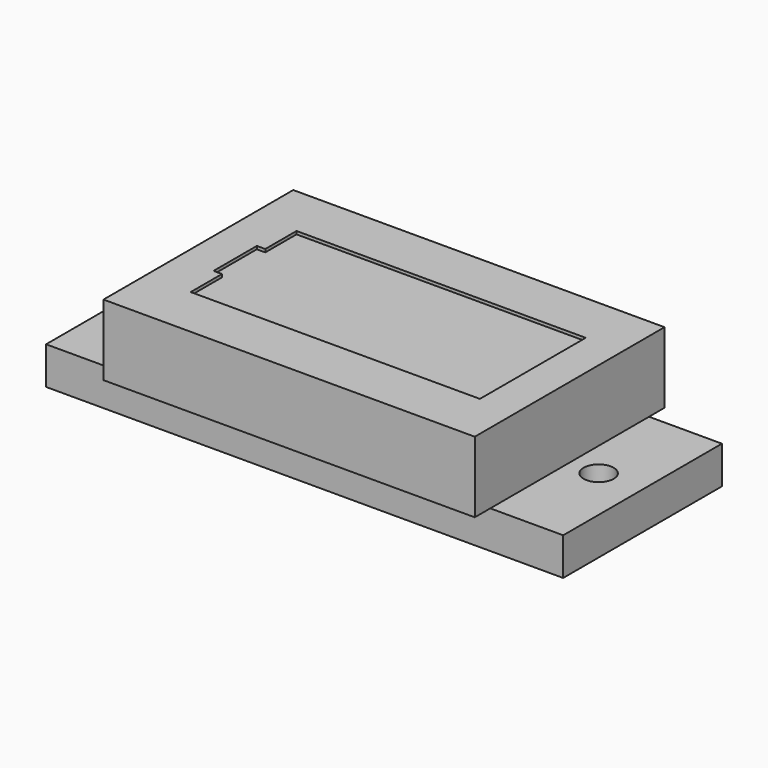
from build123d import *

# Parameters (mm, degrees)
F0_W     = 43.688
F0_H     = 16.764
F0_R     = 1.27
F1_DEPTH = 3.175
F2_W     = 31.369
F2_H     = 20.0406
F3_DEPTH = 5.9944
F5_DEPTH = 0.254


with BuildPart() as f1:
    # F0 (on Top) → F1 (new body)
    with BuildSketch(Plane.XY):
        Rectangle(F0_W, F0_H)
        with Locations((-18.1356, 0)):
            Circle(F0_R, mode=Mode.SUBTRACT)
        with Locations((18.1356, 0)):
            Circle(F0_R, mode=Mode.SUBTRACT)
    extrude(amount=F1_DEPTH)

    # F2 (on face) → F3 (join)
    with BuildSketch(Plane.XY.offset(3.175)):
        Rectangle(F2_W, F2_H)
    extrude(amount=F3_DEPTH)

    # F4 (on face) → F5 (cut)
    with BuildSketch(Plane.XY.offset(9.1694)):
        Polygon((-11.8618, -5.588), (12.573, -5.588), (12.573, 5.588), (-11.861305, 5.588), (-11.861305, 2.286189), (-12.573, 2.286189), (-12.573, -2.286), (-11.8618, -2.286), align=None)
    extrude(amount=-F5_DEPTH, mode=Mode.SUBTRACT)


solid = f1.part
